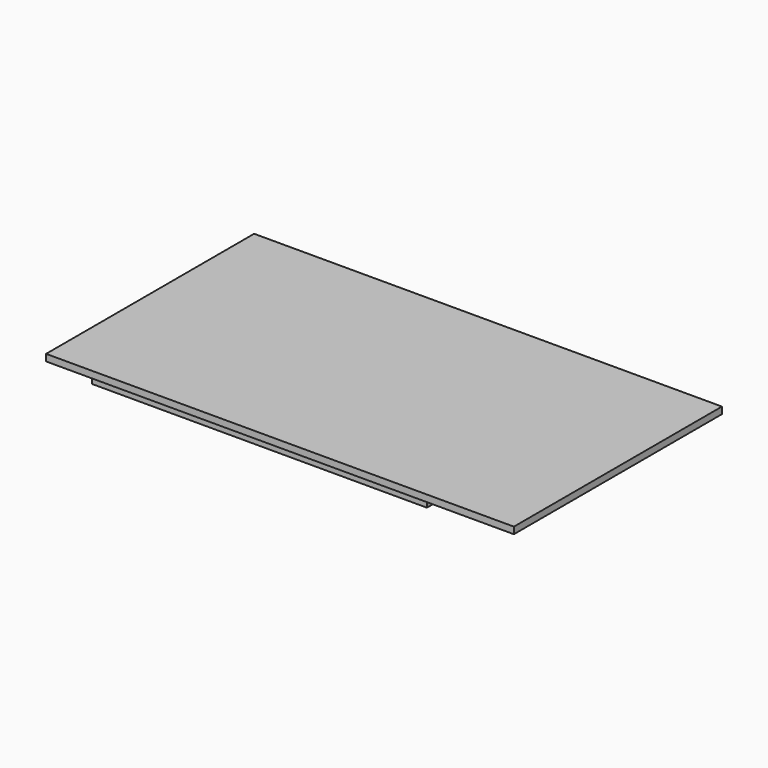
from build123d import *

# Parameters (mm, degrees)
BOX122_W     = 69.8
BOX122_H     = 38.8
BOX122_DEPTH = 1
BOX084_W     = 50
BOX084_H     = 23
BOX084_DEPTH = 1


with BuildPart() as board004:
    # Box122 → Box122 (new body)
    with BuildSketch(Plane(origin=(-42.5, -19.4, 18.5), x_dir=(1, 0, 0), z_dir=(0, 0, 1))):
        with Locations((34.9, 19.4)):
            Rectangle(BOX122_W, BOX122_H)
    extrude(amount=BOX122_DEPTH)


with BuildPart() as fusion140:
    # Box084 → Box084 (new body)
    with BuildSketch(Plane(origin=(-42, -11.5, 12.5), x_dir=(1, 0, 0), z_dir=(0, 0, 1))):
        with Locations((25, 11.5)):
            Rectangle(BOX084_W, BOX084_H)
    extrude(amount=BOX084_DEPTH)

    # Fusion140: union board004
    add(board004.part)


with BuildPart() as fusion140_1:
    # Fusion140 placement: moved
    add(fusion140.part.moved(Location((0, 0, -0.5))))


solid = fusion140_1.part
